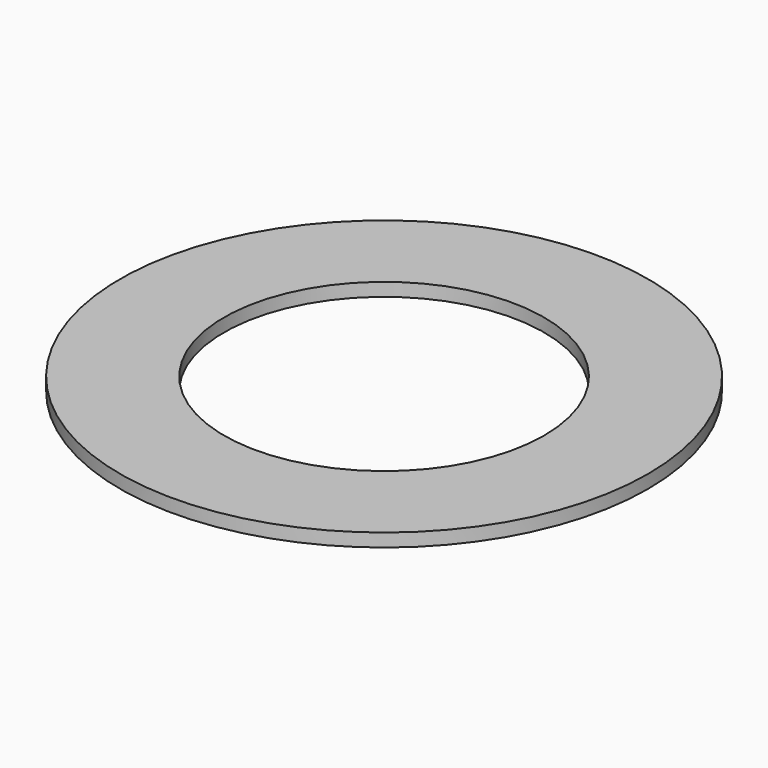
from build123d import *

# Parameters (mm, degrees)
SKETCH_R   = 8
SKETCH_R_2 = 4.85
PAD_DEPTH  = 0.4


with BuildPart() as part:
    # Sketch → Pad (new body)
    with BuildSketch(Plane.XY):
        Circle(SKETCH_R)
        Circle(SKETCH_R_2, mode=Mode.SUBTRACT)
    extrude(amount=PAD_DEPTH)


solid = part.part
